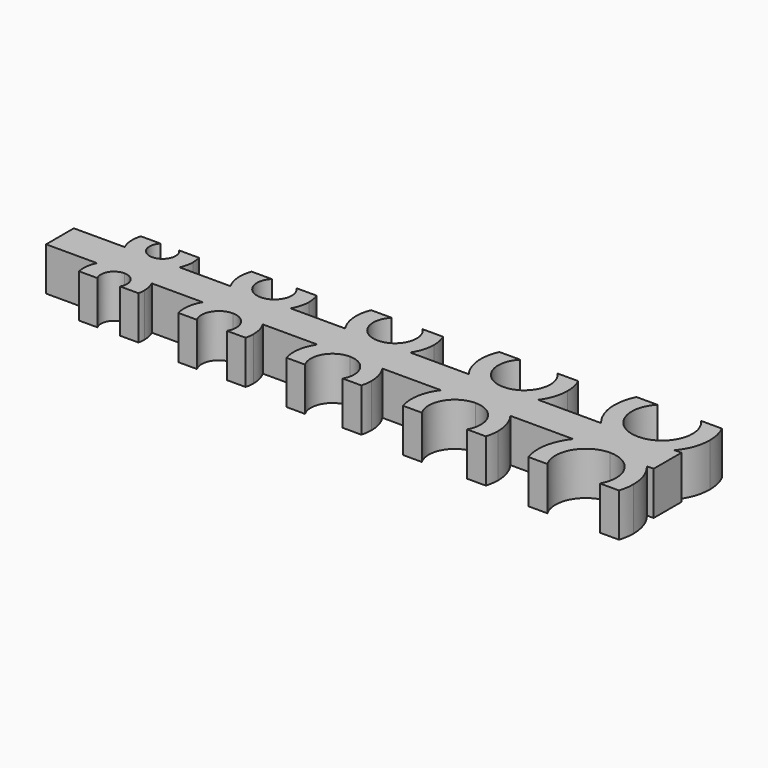
from build123d import *

# Parameters (mm, degrees)
F1_DEPTH = 6.35


with BuildPart() as f1:
    # F0 (on Top) → F1 (new body)
    with BuildSketch(Plane.XY):
        with BuildLine():
            ThreePointArc((-37.0116242497, -2.54), (-35.3714840618, -0.6882893377), (-32.9955316212, 0))
            ThreePointArc((-32.9955316212, 0), (-35.3714840618, 0.6882893377), (-37.0116242497, 2.54))
            Line((-37.0116242497, 2.54), (-44.45, 2.54))
            Line((-44.45, 2.54), (-44.45, -2.54))
            Line((-44.45, -2.54), (-37.0116242497, -2.54))
        make_face()
        with BuildLine():
            Line((-32.9955316212, 2.54), (-28.9794389928, 2.54))
            ThreePointArc((-28.9794389928, 2.54), (-28.6590839545, 3.4686564983), (-28.5505316212, 4.445))
            ThreePointArc((-28.5505316212, 4.445), (-28.60201483, 5.1195629733), (-28.7552718709, 5.7785))
            Line((-28.7552718709, 5.7785), (-31.6350895056, 5.7785))
            ThreePointArc((-31.6350895056, 5.7785), (-31.231917827, 5.1652023222), (-31.0905316212, 4.445))
            ThreePointArc((-31.0905316212, 4.445), (-31.6484932031, 3.0979615818), (-32.9955316212, 2.54))
        make_face()
        with BuildLine():
            Line((-37.0116242497, 2.54), (-32.9955316212, 2.54))
            ThreePointArc((-32.9955316212, 2.54), (-34.7518548404, 3.7071966725), (-34.3559737369, 5.7785))
            Line((-34.3559737369, 5.7785), (-37.2357913715, 5.7785))
            ThreePointArc((-37.2357913715, 5.7785), (-37.4299210057, 4.1380540974), (-37.0116242497, 2.54))
        make_face()
        with BuildLine():
            ThreePointArc((-32.9955316212, 0), (-30.6195791806, 0.6882893377), (-28.9794389928, 2.54))
            Line((-28.9794389928, 2.54), (-32.9955316212, 2.54))
            Line((-32.9955316212, 2.54), (-37.0116242497, 2.54))
            ThreePointArc((-37.0116242497, 2.54), (-35.3714840618, 0.6882893377), (-32.9955316212, 0))
        make_face()
        with BuildLine():
            Line((-32.9955316212, -2.54), (-28.9794389928, -2.54))
            ThreePointArc((-28.9794389928, -2.54), (-30.6195791806, -0.6882893377), (-32.9955316212, 0))
            ThreePointArc((-32.9955316212, 0), (-35.3714840618, -0.6882893377), (-37.0116242497, -2.54))
            Line((-37.0116242497, -2.54), (-32.9955316212, -2.54))
        make_face()
        with BuildLine():
            ThreePointArc((-34.6453100154, -5.3975), (-34.6453100154, -3.4925), (-32.9955316212, -2.54))
            Line((-32.9955316212, -2.54), (-37.0116242497, -2.54))
            ThreePointArc((-37.0116242497, -2.54), (-37.4119439902, -3.941684207), (-37.3372788214, -5.3975))
            Line((-37.3372788214, -5.3975), (-34.6453100154, -5.3975))
        make_face()
        with BuildLine():
            ThreePointArc((-28.5505316212, -4.445), (-28.6590839545, -3.4686564983), (-28.9794389928, -2.54))
            Line((-28.9794389928, -2.54), (-32.9955316212, -2.54))
            ThreePointArc((-32.9955316212, -2.54), (-31.6484932031, -3.0979615818), (-31.0905316212, -4.445))
            ThreePointArc((-31.0905316212, -4.445), (-31.1554429222, -4.9380502809), (-31.345753227, -5.3975))
            Line((-31.345753227, -5.3975), (-28.6537844211, -5.3975))
            ThreePointArc((-28.6537844211, -5.3975), (-28.5764202114, -4.9240400272), (-28.5505316212, -4.445))
        make_face()
        with BuildLine():
            ThreePointArc((-21.5326457565, -2.54), (-19.6732367053, -0.6805909488), (-17.1332367053, 0))
            ThreePointArc((-17.1332367053, 0), (-19.6732367053, 0.6805909488), (-21.5326457565, 2.54))
            Line((-21.5326457565, 2.54), (-28.9794389928, 2.54))
            ThreePointArc((-28.9794389928, 2.54), (-30.6195791806, 0.6882893377), (-32.9955316212, 0))
            ThreePointArc((-32.9955316212, 0), (-30.6195791806, -0.6882893377), (-28.9794389928, -2.54))
            Line((-28.9794389928, -2.54), (-21.5326457565, -2.54))
        make_face()
        with BuildLine():
            ThreePointArc((-19.3329412309, -6.35), (-19.3329412309, -3.81), (-17.1332367053, -2.54))
            Line((-17.1332367053, -2.54), (-21.5326457565, -2.54))
            ThreePointArc((-21.5326457565, -2.54), (-22.1667009321, -4.3939694779), (-22.051925555, -6.35))
            Line((-22.051925555, -6.35), (-19.3329412309, -6.35))
        make_face()
        with BuildLine():
            ThreePointArc((-12.0532367053, -5.08), (-12.2263335078, -3.7651992509), (-12.7338276541, -2.54))
            Line((-12.7338276541, -2.54), (-17.1332367053, -2.54))
            ThreePointArc((-17.1332367053, -2.54), (-15.3371854811, -3.2839487758), (-14.5932367053, -5.08))
            ThreePointArc((-14.5932367053, -5.08), (-14.6797851065, -5.7374003746), (-14.9335321797, -6.35))
            Line((-14.9335321797, -6.35), (-12.2145478556, -6.35))
            ThreePointArc((-12.2145478556, -6.35), (-12.0937258483, -5.7201018058), (-12.0532367053, -5.08))
        make_face()
        with BuildLine():
            Line((-17.1332367053, -2.54), (-12.7338276541, -2.54))
            ThreePointArc((-12.7338276541, -2.54), (-14.5932367053, -0.6805909488), (-17.1332367053, 0))
            ThreePointArc((-17.1332367053, 0), (-19.6732367053, -0.6805909488), (-21.5326457565, -2.54))
            Line((-21.5326457565, -2.54), (-17.1332367053, -2.54))
        make_face()
        with BuildLine():
            Line((-21.5326457565, 2.54), (-17.1332367053, 2.54))
            ThreePointArc((-17.1332367053, 2.54), (-19.4750009975, 4.0962622301), (-18.9471595262, 6.858))
            Line((-18.9471595262, 6.858), (-21.8919251801, 6.858))
            ThreePointArc((-21.8919251801, 6.858), (-22.1957428608, 4.6587739015), (-21.5326457565, 2.54))
        make_face()
        with BuildLine():
            ThreePointArc((-17.1332367053, 0), (-14.5932367053, 0.6805909488), (-12.7338276541, 2.54))
            Line((-12.7338276541, 2.54), (-17.1332367053, 2.54))
            Line((-17.1332367053, 2.54), (-21.5326457565, 2.54))
            ThreePointArc((-21.5326457565, 2.54), (-19.6732367053, 0.6805909488), (-17.1332367053, 0))
        make_face()
        with BuildLine():
            Line((-17.1332367053, 2.54), (-12.7338276541, 2.54))
            ThreePointArc((-12.7338276541, 2.54), (-12.2263335078, 3.7651992509), (-12.0532367053, 5.08))
            ThreePointArc((-12.0532367053, 5.08), (-12.1342099274, 5.9833998417), (-12.3745482305, 6.858))
            Line((-12.3745482305, 6.858), (-15.3193138845, 6.858))
            ThreePointArc((-15.3193138845, 6.858), (-14.7817516464, 6.0402697629), (-14.5932367053, 5.08))
            ThreePointArc((-14.5932367053, 5.08), (-15.3371854811, 3.2839487758), (-17.1332367053, 2.54))
        make_face()
        with BuildLine():
            ThreePointArc((-4.7519048812, -2.54), (-2.6940768363, -0.6748437524), (0, 0))
            ThreePointArc((0, 0), (-2.6940768363, 0.6748437524), (-4.7519048812, 2.54))
            Line((-4.7519048812, 2.54), (-12.7338276541, 2.54))
            ThreePointArc((-12.7338276541, 2.54), (-14.5932367053, 0.6805909488), (-17.1332367053, 0))
            ThreePointArc((-17.1332367053, 0), (-14.5932367053, -0.6805909488), (-12.7338276541, -2.54))
            Line((-12.7338276541, -2.54), (-4.7519048812, -2.54))
        make_face()
        with BuildLine():
            Line((-4.7519048812, 2.54), (0, 2.54))
            ThreePointArc((0, 2.54), (-2.9272053652, 4.4853277876), (-2.2674035261, 7.9375))
            Line((-2.2674035261, 7.9375), (-5.2651418547, 7.9375))
            ThreePointArc((-5.2651418547, 7.9375), (-5.6893372101, 5.1740128373), (-4.7519048812, 2.54))
        make_face()
        with BuildLine():
            ThreePointArc((0, 0), (2.6940768363, 0.6748437524), (4.7519048812, 2.54))
            Line((4.7519048812, 2.54), (0, 2.54))
            Line((0, 2.54), (-4.7519048812, 2.54))
            ThreePointArc((-4.7519048812, 2.54), (-2.6940768363, 0.6748437524), (0, 0))
        make_face()
        with BuildLine():
            Line((0, 2.54), (4.7519048812, 2.54))
            ThreePointArc((4.7519048812, 2.54), (5.4689286609, 4.0560713391), (5.715, 5.715))
            ThreePointArc((5.715, 5.715), (5.601406551, 6.8487855398), (5.2651418547, 7.9375))
            Line((5.2651418547, 7.9375), (2.2674035261, 7.9375))
            ThreePointArc((2.2674035261, 7.9375), (2.9393563237, 6.9153372036), (3.175, 5.715))
            ThreePointArc((3.175, 5.715), (2.2450640303, 3.4699359697), (0, 2.54))
        make_face()
        with BuildLine():
            ThreePointArc((-2.749630657, -7.3025), (-2.7496306576, -4.127500001), (-2.2e-09, -2.54))
            Line((-2.2e-09, -2.54), (-4.7519048812, -2.54))
            ThreePointArc((-4.7519048812, -2.54), (-5.6475620647, -4.8396328051), (-5.4900882279, -7.3025))
            Line((-5.4900882279, -7.3025), (-2.749630657, -7.3025))
        make_face()
        with BuildLine():
            Line((-2.2e-09, -2.54), (4.7519048812, -2.54))
            ThreePointArc((4.7519048812, -2.54), (2.6940768363, -0.6748437524), (0, 0))
            ThreePointArc((0, 0), (-2.6940768363, -0.6748437524), (-4.7519048812, -2.54))
            Line((-4.7519048812, -2.54), (-2.2e-09, -2.54))
        make_face()
        with BuildLine():
            ThreePointArc((5.715, -5.715), (5.4689286609, -4.0560713391), (4.7519048812, -2.54))
            Line((4.7519048812, -2.54), (-2.2e-09, -2.54))
            ThreePointArc((-2.2e-09, -2.54), (2.2450640295, -3.469935969), (3.175, -5.715))
            ThreePointArc((3.175, -5.715), (3.0668144985, -6.5367504682), (2.749630657, -7.3025))
            Line((2.749630657, -7.3025), (5.4900882279, -7.3025))
            ThreePointArc((5.4900882279, -7.3025), (5.6584926978, -6.5166766111), (5.715, -5.715))
        make_face()
        with BuildLine():
            Line((13.3240484677, 2.54), (18.4040484677, 2.54))
            ThreePointArc((18.4040484677, 2.54), (14.8914020294, 4.8743933451), (15.6831642364, 9.017))
            Line((15.6831642364, 9.017), (12.641270405, 9.017))
            ThreePointArc((12.641270405, 9.017), (12.0890392611, 5.6842983245), (13.3240484677, 2.54))
        make_face()
        with BuildLine():
            ThreePointArc((18.4040484677, 0), (21.2438547991, 0.6703873372), (23.4840484677, 2.54))
            Line((23.4840484677, 2.54), (18.4040484677, 2.54))
            Line((18.4040484677, 2.54), (13.3240484677, 2.54))
            ThreePointArc((13.3240484677, 2.54), (15.5642421362, 0.6703873372), (18.4040484677, 0))
        make_face()
        with BuildLine():
            Line((18.4040484677, 2.54), (23.4840484677, 2.54))
            ThreePointArc((23.4840484677, 2.54), (24.4281874103, 4.3419536858), (24.7540484677, 6.35))
            ThreePointArc((24.7540484677, 6.35), (24.6055055827, 7.7154411928), (24.1668265304, 9.017))
            Line((24.1668265304, 9.017), (21.1249326989, 9.017))
            ThreePointArc((21.1249326989, 9.017), (21.9312760561, 7.7904046443), (22.2140484677, 6.35))
            ThreePointArc((22.2140484677, 6.35), (21.098125304, 3.6559231637), (18.4040484677, 2.54))
        make_face()
        with BuildLine():
            ThreePointArc((15.1044916792, -8.255), (15.1044916792, -4.445), (18.4040484677, -2.54))
            Line((18.4040484677, -2.54), (13.3240484677, -2.54))
            ThreePointArc((13.3240484677, -2.54), (12.1449462653, -5.2794208949), (12.3465345387, -8.255))
            Line((12.3465345387, -8.255), (15.1044916792, -8.255))
        make_face()
        with BuildLine():
            Line((18.4040484677, -2.54), (23.4840484677, -2.54))
            ThreePointArc((23.4840484677, -2.54), (21.2438547991, -0.6703873372), (18.4040484677, 0))
            ThreePointArc((18.4040484677, 0), (15.5642421362, -0.6703873372), (13.3240484677, -2.54))
            Line((13.3240484677, -2.54), (18.4040484677, -2.54))
        make_face()
        with BuildLine():
            ThreePointArc((24.7540484677, -6.35), (24.4281874103, -4.3419536858), (23.4840484677, -2.54))
            Line((23.4840484677, -2.54), (18.4040484677, -2.54))
            ThreePointArc((18.4040484677, -2.54), (21.098125304, -3.6559231637), (22.2140484677, -6.35))
            ThreePointArc((22.2140484677, -6.35), (22.0842258658, -7.3361005618), (21.7036052561, -8.255))
            Line((21.7036052561, -8.255), (24.4615623967, -8.255))
            ThreePointArc((24.4615623967, -8.255), (24.6805010266, -7.3136613904), (24.7540484677, -6.35))
        make_face()
        with BuildLine():
            ThreePointArc((32.6906501938, -2.54), (35.1003898589, -0.6668297744), (38.0788038664, 0))
            ThreePointArc((38.0788038664, 0), (35.1003898589, 0.6668297744), (32.6906501938, 2.54))
            Line((32.6906501938, 2.54), (23.4840484677, 2.54))
            ThreePointArc((23.4840484677, 2.54), (21.2438547991, 0.6703873372), (18.4040484677, 0))
            ThreePointArc((18.4040484677, 0), (21.2438547991, -0.6703873372), (23.4840484677, -2.54))
            Line((23.4840484677, -2.54), (32.6906501938, -2.54))
        make_face()
        with BuildLine():
            Line((32.6906501938, 2.54), (38.0788038664, 2.54))
            ThreePointArc((38.0788038664, 2.54), (33.9807163551, 5.2634589026), (34.9044389299, 10.0965))
            Line((34.9044389299, 10.0965), (31.825101543, 10.0965))
            ThreePointArc((31.825101543, 10.0965), (31.1391802584, 6.1901105868), (32.6906501938, 2.54))
        make_face()
        with BuildLine():
            ThreePointArc((38.0788038664, 0), (41.0572178739, 0.6668297744), (43.466957539, 2.54))
            Line((43.466957539, 2.54), (38.0788038664, 2.54))
            Line((38.0788038664, 2.54), (32.6906501938, 2.54))
            ThreePointArc((32.6906501938, 2.54), (35.1003898589, 0.6668297744), (38.0788038664, 0))
        make_face()
        with BuildLine():
            Line((38.0788038664, 2.54), (43.466957539, 2.54))
            ThreePointArc((43.466957539, 2.54), (44.6524816195, 4.6234357306), (45.0638038664, 6.985))
            ThreePointArc((45.0638038664, 6.985), (44.8785220859, 8.5831417758), (44.3325061898, 10.0965))
            Line((44.3325061898, 10.0965), (41.2531688029, 10.0965))
            ThreePointArc((41.2531688029, 10.0965), (42.1939027196, 8.6654720851), (42.5238038664, 6.985))
            ThreePointArc((42.5238038664, 6.985), (41.2218935088, 3.8419103576), (38.0788038664, 2.54))
        make_face()
        with BuildLine():
            ThreePointArc((43.466957539, -2.54), (41.0572178739, -0.6668297744), (38.0788038664, 0))
            ThreePointArc((38.0788038664, 0), (35.1003898589, -0.6668297744), (32.6906501938, -2.54))
            Line((32.6906501938, -2.54), (38.0788038664, -2.54))
            Line((38.0788038664, -2.54), (43.466957539, -2.54))
        make_face()
        with BuildLine():
            Line((38.0788038664, -2.54), (32.6906501938, -2.54))
            ThreePointArc((32.6906501938, -2.54), (31.2104152675, -5.7139913238), (31.4568163438, -9.2075))
            Line((31.4568163438, -9.2075), (34.2293209466, -9.2075))
            ThreePointArc((34.2293209466, -9.2075), (34.2293209466, -4.7625), (38.0788038664, -2.54))
        make_face()
        with BuildLine():
            ThreePointArc((45.0638038664, -6.985), (44.6524816195, -4.6234357306), (43.466957539, -2.54))
            Line((43.466957539, -2.54), (38.0788038664, -2.54))
            ThreePointArc((38.0788038664, -2.54), (41.2218935088, -3.8419103576), (42.5238038664, -6.985))
            ThreePointArc((42.5238038664, -6.985), (42.3723441642, -8.1354506555), (41.9282867862, -9.2075))
            Line((41.9282867862, -9.2075), (44.700791389, -9.2075))
            ThreePointArc((44.700791389, -9.2075), (44.9724534022, -8.1109756113), (45.0638038664, -6.985))
        make_face()
        with BuildLine():
            Line((44.45, -2.54), (44.45, 2.54))
            Line((44.45, 2.54), (43.466957539, 2.54))
            ThreePointArc((43.466957539, 2.54), (41.0572178739, 0.6668297744), (38.0788038664, 0))
            ThreePointArc((38.0788038664, 0), (41.0572178739, -0.6668297744), (43.466957539, -2.54))
            Line((43.466957539, -2.54), (44.45, -2.54))
        make_face()
        with BuildLine():
            ThreePointArc((13.3240484677, -2.54), (15.5642421362, -0.6703873372), (18.4040484677, 0))
            ThreePointArc((18.4040484677, 0), (15.5642421362, 0.6703873372), (13.3240484677, 2.54))
            Line((13.3240484677, 2.54), (4.7519048812, 2.54))
            ThreePointArc((4.7519048812, 2.54), (2.6940768363, 0.6748437524), (0, 0))
            ThreePointArc((0, 0), (2.6940768363, -0.6748437524), (4.7519048812, -2.54))
            Line((4.7519048812, -2.54), (13.3240484677, -2.54))
        make_face()
    extrude(amount=F1_DEPTH)


solid = f1.part
